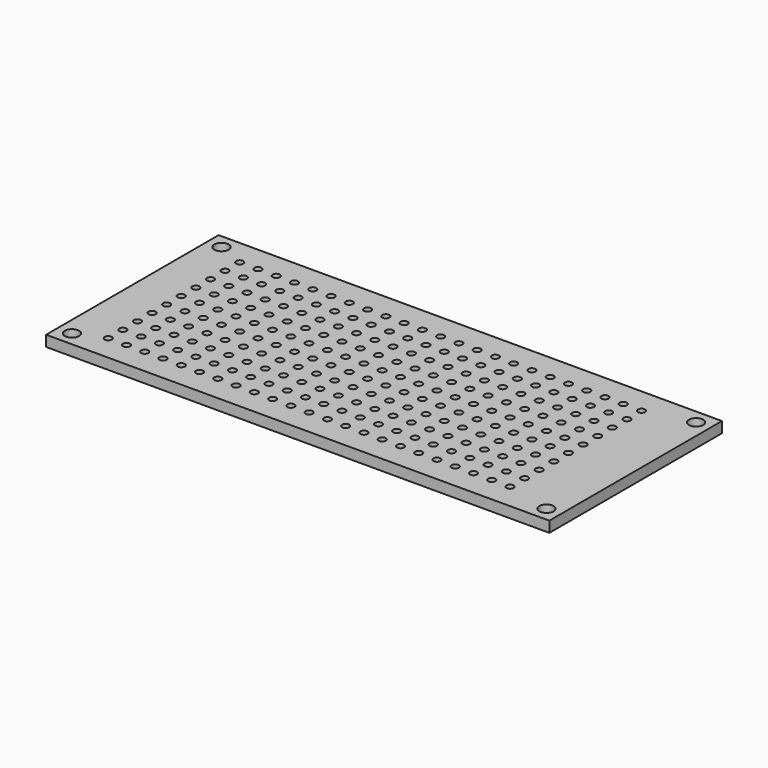
from build123d import *

# Parameters (mm, degrees)
F0_W     = 70
F0_H     = 30
F0_R     = 1
F1_DEPTH = 1.5
F2_R     = 0.5
F3_DEPTH = 1.501


with BuildPart() as f1:
    # F0 (on Top) → F1 (new body)
    with BuildSketch(Plane.XY):
        with Locations((35, 15)):
            Rectangle(F0_W, F0_H)
        with Locations((2, 2)):
            Circle(F0_R, mode=Mode.SUBTRACT)
        with Locations((68, 2)):
            Circle(F0_R, mode=Mode.SUBTRACT)
        with Locations((2, 28)):
            Circle(F0_R, mode=Mode.SUBTRACT)
        with Locations((68, 28)):
            Circle(F0_R, mode=Mode.SUBTRACT)
    extrude(amount=F1_DEPTH)

    # F2 (on face) → F3 (cut, through all)
    with BuildSketch(Plane.XY.offset(1.5)):
        with Locations((5.79, 26.43)):
            Circle(F2_R)
        with Locations((5.79, 23.89)):
            Circle(F2_R)
        with Locations((5.79, 21.35)):
            Circle(F2_R)
        with Locations((5.79, 18.81)):
            Circle(F2_R)
        with Locations((5.79, 16.27)):
            Circle(F2_R)
        with Locations((5.79, 13.73)):
            Circle(F2_R)
        with Locations((5.79, 11.19)):
            Circle(F2_R)
        with Locations((5.79, 8.65)):
            Circle(F2_R)
        with Locations((5.79, 6.11)):
            Circle(F2_R)
        with Locations((5.79, 3.57)):
            Circle(F2_R)
        with Locations((8.33, 26.43)):
            Circle(F2_R)
        with Locations((8.33, 23.89)):
            Circle(F2_R)
        with Locations((8.33, 21.35)):
            Circle(F2_R)
        with Locations((8.33, 18.81)):
            Circle(F2_R)
        with Locations((8.33, 16.27)):
            Circle(F2_R)
        with Locations((8.33, 13.73)):
            Circle(F2_R)
        with Locations((8.33, 11.19)):
            Circle(F2_R)
        with Locations((8.33, 8.65)):
            Circle(F2_R)
        with Locations((8.33, 6.11)):
            Circle(F2_R)
        with Locations((8.33, 3.57)):
            Circle(F2_R)
        with Locations((10.87, 26.43)):
            Circle(F2_R)
        with Locations((10.87, 23.89)):
            Circle(F2_R)
        with Locations((10.87, 21.35)):
            Circle(F2_R)
        with Locations((10.87, 18.81)):
            Circle(F2_R)
        with Locations((10.87, 16.27)):
            Circle(F2_R)
        with Locations((10.87, 13.73)):
            Circle(F2_R)
        with Locations((10.87, 11.19)):
            Circle(F2_R)
        with Locations((10.87, 8.65)):
            Circle(F2_R)
        with Locations((10.87, 6.11)):
            Circle(F2_R)
        with Locations((10.87, 3.57)):
            Circle(F2_R)
        with Locations((13.41, 26.43)):
            Circle(F2_R)
        with Locations((13.41, 23.89)):
            Circle(F2_R)
        with Locations((13.41, 21.35)):
            Circle(F2_R)
        with Locations((13.41, 18.81)):
            Circle(F2_R)
        with Locations((13.41, 16.27)):
            Circle(F2_R)
        with Locations((13.41, 13.73)):
            Circle(F2_R)
        with Locations((13.41, 11.19)):
            Circle(F2_R)
        with Locations((13.41, 8.65)):
            Circle(F2_R)
        with Locations((13.41, 6.11)):
            Circle(F2_R)
        with Locations((13.41, 3.57)):
            Circle(F2_R)
        with Locations((15.95, 26.43)):
            Circle(F2_R)
        with Locations((15.95, 23.89)):
            Circle(F2_R)
        with Locations((15.95, 21.35)):
            Circle(F2_R)
        with Locations((15.95, 18.81)):
            Circle(F2_R)
        with Locations((15.95, 16.27)):
            Circle(F2_R)
        with Locations((15.95, 13.73)):
            Circle(F2_R)
        with Locations((15.95, 11.19)):
            Circle(F2_R)
        with Locations((15.95, 8.65)):
            Circle(F2_R)
        with Locations((15.95, 6.11)):
            Circle(F2_R)
        with Locations((15.95, 3.57)):
            Circle(F2_R)
        with Locations((18.49, 26.43)):
            Circle(F2_R)
        with Locations((18.49, 23.89)):
            Circle(F2_R)
        with Locations((18.49, 21.35)):
            Circle(F2_R)
        with Locations((18.49, 18.81)):
            Circle(F2_R)
        with Locations((18.49, 16.27)):
            Circle(F2_R)
        with Locations((18.49, 13.73)):
            Circle(F2_R)
        with Locations((18.49, 11.19)):
            Circle(F2_R)
        with Locations((18.49, 8.65)):
            Circle(F2_R)
        with Locations((18.49, 6.11)):
            Circle(F2_R)
        with Locations((18.49, 3.57)):
            Circle(F2_R)
        with Locations((21.03, 26.43)):
            Circle(F2_R)
        with Locations((21.03, 23.89)):
            Circle(F2_R)
        with Locations((21.03, 21.35)):
            Circle(F2_R)
        with Locations((21.03, 18.81)):
            Circle(F2_R)
        with Locations((21.03, 16.27)):
            Circle(F2_R)
        with Locations((21.03, 13.73)):
            Circle(F2_R)
        with Locations((21.03, 11.19)):
            Circle(F2_R)
        with Locations((21.03, 8.65)):
            Circle(F2_R)
        with Locations((21.03, 6.11)):
            Circle(F2_R)
        with Locations((21.03, 3.57)):
            Circle(F2_R)
        with Locations((23.57, 26.43)):
            Circle(F2_R)
        with Locations((23.57, 23.89)):
            Circle(F2_R)
        with Locations((23.57, 21.35)):
            Circle(F2_R)
        with Locations((23.57, 18.81)):
            Circle(F2_R)
        with Locations((23.57, 16.27)):
            Circle(F2_R)
        with Locations((23.57, 13.73)):
            Circle(F2_R)
        with Locations((23.57, 11.19)):
            Circle(F2_R)
        with Locations((23.57, 8.65)):
            Circle(F2_R)
        with Locations((23.57, 6.11)):
            Circle(F2_R)
        with Locations((23.57, 3.57)):
            Circle(F2_R)
        with Locations((26.11, 26.43)):
            Circle(F2_R)
        with Locations((26.11, 23.89)):
            Circle(F2_R)
        with Locations((26.11, 21.35)):
            Circle(F2_R)
        with Locations((26.11, 18.81)):
            Circle(F2_R)
        with Locations((26.11, 16.27)):
            Circle(F2_R)
        with Locations((26.11, 13.73)):
            Circle(F2_R)
        with Locations((26.11, 11.19)):
            Circle(F2_R)
        with Locations((26.11, 8.65)):
            Circle(F2_R)
        with Locations((26.11, 6.11)):
            Circle(F2_R)
        with Locations((26.11, 3.57)):
            Circle(F2_R)
        with Locations((28.65, 26.43)):
            Circle(F2_R)
        with Locations((28.65, 23.89)):
            Circle(F2_R)
        with Locations((28.65, 21.35)):
            Circle(F2_R)
        with Locations((28.65, 18.81)):
            Circle(F2_R)
        with Locations((28.65, 16.27)):
            Circle(F2_R)
        with Locations((28.65, 13.73)):
            Circle(F2_R)
        with Locations((28.65, 11.19)):
            Circle(F2_R)
        with Locations((28.65, 8.65)):
            Circle(F2_R)
        with Locations((28.65, 6.11)):
            Circle(F2_R)
        with Locations((28.65, 3.57)):
            Circle(F2_R)
        with Locations((31.19, 26.43)):
            Circle(F2_R)
        with Locations((31.19, 23.89)):
            Circle(F2_R)
        with Locations((31.19, 21.35)):
            Circle(F2_R)
        with Locations((31.19, 18.81)):
            Circle(F2_R)
        with Locations((31.19, 16.27)):
            Circle(F2_R)
        with Locations((31.19, 13.73)):
            Circle(F2_R)
        with Locations((31.19, 11.19)):
            Circle(F2_R)
        with Locations((31.19, 8.65)):
            Circle(F2_R)
        with Locations((31.19, 6.11)):
            Circle(F2_R)
        with Locations((31.19, 3.57)):
            Circle(F2_R)
        with Locations((33.73, 26.43)):
            Circle(F2_R)
        with Locations((33.73, 23.89)):
            Circle(F2_R)
        with Locations((33.73, 21.35)):
            Circle(F2_R)
        with Locations((33.73, 18.81)):
            Circle(F2_R)
        with Locations((33.73, 16.27)):
            Circle(F2_R)
        with Locations((33.73, 13.73)):
            Circle(F2_R)
        with Locations((33.73, 11.19)):
            Circle(F2_R)
        with Locations((33.73, 8.65)):
            Circle(F2_R)
        with Locations((33.73, 6.11)):
            Circle(F2_R)
        with Locations((33.73, 3.57)):
            Circle(F2_R)
        with Locations((36.27, 26.43)):
            Circle(F2_R)
        with Locations((36.27, 23.89)):
            Circle(F2_R)
        with Locations((36.27, 21.35)):
            Circle(F2_R)
        with Locations((36.27, 18.81)):
            Circle(F2_R)
        with Locations((36.27, 16.27)):
            Circle(F2_R)
        with Locations((36.27, 13.73)):
            Circle(F2_R)
        with Locations((36.27, 11.19)):
            Circle(F2_R)
        with Locations((36.27, 8.65)):
            Circle(F2_R)
        with Locations((36.27, 6.11)):
            Circle(F2_R)
        with Locations((36.27, 3.57)):
            Circle(F2_R)
        with Locations((38.81, 26.43)):
            Circle(F2_R)
        with Locations((38.81, 23.89)):
            Circle(F2_R)
        with Locations((38.81, 21.35)):
            Circle(F2_R)
        with Locations((38.81, 18.81)):
            Circle(F2_R)
        with Locations((38.81, 16.27)):
            Circle(F2_R)
        with Locations((38.81, 13.73)):
            Circle(F2_R)
        with Locations((38.81, 11.19)):
            Circle(F2_R)
        with Locations((38.81, 8.65)):
            Circle(F2_R)
        with Locations((38.81, 6.11)):
            Circle(F2_R)
        with Locations((38.81, 3.57)):
            Circle(F2_R)
        with Locations((41.35, 26.43)):
            Circle(F2_R)
        with Locations((41.35, 23.89)):
            Circle(F2_R)
        with Locations((41.35, 21.35)):
            Circle(F2_R)
        with Locations((41.35, 18.81)):
            Circle(F2_R)
        with Locations((41.35, 16.27)):
            Circle(F2_R)
        with Locations((41.35, 13.73)):
            Circle(F2_R)
        with Locations((41.35, 11.19)):
            Circle(F2_R)
        with Locations((41.35, 8.65)):
            Circle(F2_R)
        with Locations((41.35, 6.11)):
            Circle(F2_R)
        with Locations((41.35, 3.57)):
            Circle(F2_R)
        with Locations((43.89, 26.43)):
            Circle(F2_R)
        with Locations((43.89, 23.89)):
            Circle(F2_R)
        with Locations((43.89, 21.35)):
            Circle(F2_R)
        with Locations((43.89, 18.81)):
            Circle(F2_R)
        with Locations((43.89, 16.27)):
            Circle(F2_R)
        with Locations((43.89, 13.73)):
            Circle(F2_R)
        with Locations((43.89, 11.19)):
            Circle(F2_R)
        with Locations((43.89, 8.65)):
            Circle(F2_R)
        with Locations((43.89, 6.11)):
            Circle(F2_R)
        with Locations((43.89, 3.57)):
            Circle(F2_R)
        with Locations((46.43, 26.43)):
            Circle(F2_R)
        with Locations((46.43, 23.89)):
            Circle(F2_R)
        with Locations((46.43, 21.35)):
            Circle(F2_R)
        with Locations((46.43, 18.81)):
            Circle(F2_R)
        with Locations((46.43, 16.27)):
            Circle(F2_R)
        with Locations((46.43, 13.73)):
            Circle(F2_R)
        with Locations((46.43, 11.19)):
            Circle(F2_R)
        with Locations((46.43, 8.65)):
            Circle(F2_R)
        with Locations((46.43, 6.11)):
            Circle(F2_R)
        with Locations((46.43, 3.57)):
            Circle(F2_R)
        with Locations((48.97, 26.43)):
            Circle(F2_R)
        with Locations((48.97, 23.89)):
            Circle(F2_R)
        with Locations((48.97, 21.35)):
            Circle(F2_R)
        with Locations((48.97, 18.81)):
            Circle(F2_R)
        with Locations((48.97, 16.27)):
            Circle(F2_R)
        with Locations((48.97, 13.73)):
            Circle(F2_R)
        with Locations((48.97, 11.19)):
            Circle(F2_R)
        with Locations((48.97, 8.65)):
            Circle(F2_R)
        with Locations((48.97, 6.11)):
            Circle(F2_R)
        with Locations((48.97, 3.57)):
            Circle(F2_R)
        with Locations((51.51, 26.43)):
            Circle(F2_R)
        with Locations((51.51, 23.89)):
            Circle(F2_R)
        with Locations((51.51, 21.35)):
            Circle(F2_R)
        with Locations((51.51, 18.81)):
            Circle(F2_R)
        with Locations((51.51, 16.27)):
            Circle(F2_R)
        with Locations((51.51, 13.73)):
            Circle(F2_R)
        with Locations((51.51, 11.19)):
            Circle(F2_R)
        with Locations((51.51, 8.65)):
            Circle(F2_R)
        with Locations((51.51, 6.11)):
            Circle(F2_R)
        with Locations((51.51, 3.57)):
            Circle(F2_R)
        with Locations((54.05, 26.43)):
            Circle(F2_R)
        with Locations((54.05, 23.89)):
            Circle(F2_R)
        with Locations((54.05, 21.35)):
            Circle(F2_R)
        with Locations((54.05, 18.81)):
            Circle(F2_R)
        with Locations((54.05, 16.27)):
            Circle(F2_R)
        with Locations((54.05, 13.73)):
            Circle(F2_R)
        with Locations((54.05, 11.19)):
            Circle(F2_R)
        with Locations((54.05, 8.65)):
            Circle(F2_R)
        with Locations((54.05, 6.11)):
            Circle(F2_R)
        with Locations((54.05, 3.57)):
            Circle(F2_R)
        with Locations((56.59, 26.43)):
            Circle(F2_R)
        with Locations((56.59, 23.89)):
            Circle(F2_R)
        with Locations((56.59, 21.35)):
            Circle(F2_R)
        with Locations((56.59, 18.81)):
            Circle(F2_R)
        with Locations((56.59, 16.27)):
            Circle(F2_R)
        with Locations((56.59, 13.73)):
            Circle(F2_R)
        with Locations((56.59, 11.19)):
            Circle(F2_R)
        with Locations((56.59, 8.65)):
            Circle(F2_R)
        with Locations((56.59, 6.11)):
            Circle(F2_R)
        with Locations((56.59, 3.57)):
            Circle(F2_R)
        with Locations((59.13, 26.43)):
            Circle(F2_R)
        with Locations((59.13, 23.89)):
            Circle(F2_R)
        with Locations((59.13, 21.35)):
            Circle(F2_R)
        with Locations((59.13, 18.81)):
            Circle(F2_R)
        with Locations((59.13, 16.27)):
            Circle(F2_R)
        with Locations((59.13, 13.73)):
            Circle(F2_R)
        with Locations((59.13, 11.19)):
            Circle(F2_R)
        with Locations((59.13, 8.65)):
            Circle(F2_R)
        with Locations((59.13, 6.11)):
            Circle(F2_R)
        with Locations((59.13, 3.57)):
            Circle(F2_R)
        with Locations((61.67, 26.43)):
            Circle(F2_R)
        with Locations((61.67, 23.89)):
            Circle(F2_R)
        with Locations((61.67, 21.35)):
            Circle(F2_R)
        with Locations((61.67, 18.81)):
            Circle(F2_R)
        with Locations((61.67, 16.27)):
            Circle(F2_R)
        with Locations((61.67, 13.73)):
            Circle(F2_R)
        with Locations((61.67, 11.19)):
            Circle(F2_R)
        with Locations((61.67, 8.65)):
            Circle(F2_R)
        with Locations((61.67, 6.11)):
            Circle(F2_R)
        with Locations((61.67, 3.57)):
            Circle(F2_R)
    extrude(amount=-F3_DEPTH, mode=Mode.SUBTRACT)


solid = f1.part
